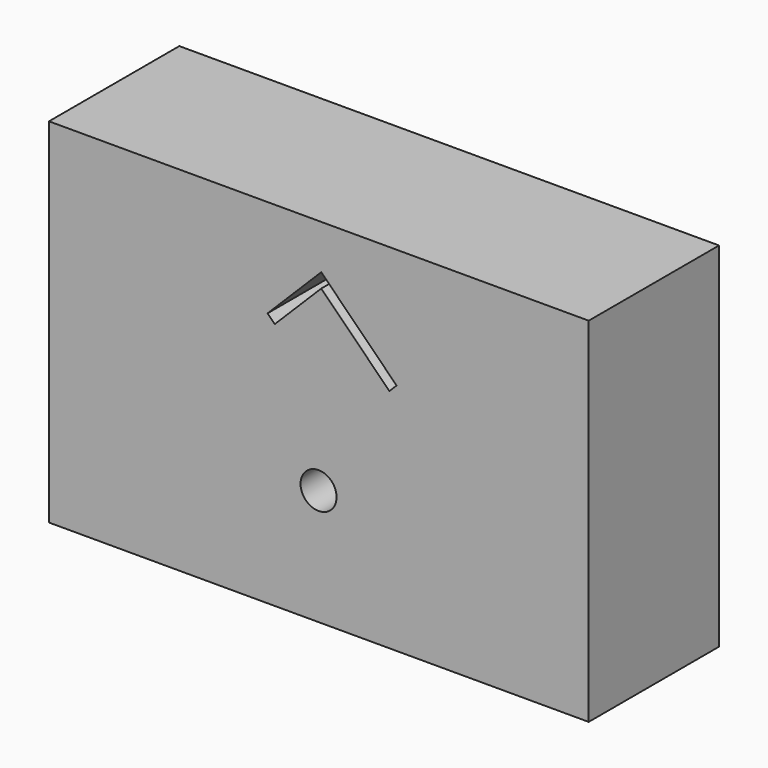
from build123d import *

# Parameters (mm, degrees)
F0_W     = 97.028
F0_H     = 29.2862
F1_DEPTH = 63.5
F2_R     = 3.2385
F3_DEPTH = 50.8
F5_DEPTH = 50.8


with BuildPart() as f1:
    # F0 (on Top) → F1 (new body)
    with BuildSketch(Plane.XY):
        with Locations((3.356052, -0.137089)):
            Rectangle(F0_W, F0_H)
    extrude(amount=F1_DEPTH)

    # F2 (on face) → F3 (cut)
    with BuildSketch(Plane.XZ.offset(14.780189)):
        with Locations((3.305252, 20.828)):
            Circle(F2_R)
    extrude(amount=-F3_DEPTH, mode=Mode.SUBTRACT)

    # F4 (on face) → F5 (cut)
    with BuildSketch(Plane.XZ.offset(14.780189)):
        Polygon((17.332412, 42.000698), (3.790186, 55.542924), (-5.854609, 45.898129), (-4.561452, 44.604972), (3.790186, 52.95661), (16.039255, 40.707541), align=None)
    extrude(amount=-F5_DEPTH, mode=Mode.SUBTRACT)


solid = f1.part
